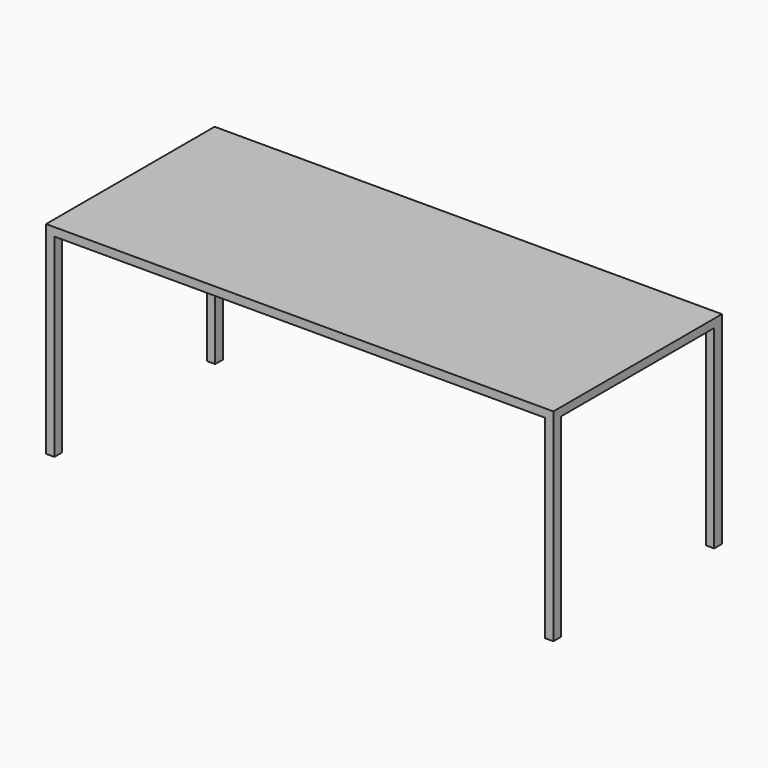
from build123d import *

# Parameters (mm, degrees)
F0_W     = 1830
F0_H     = 760
F1_DEPTH = 730
F2_W     = 30
F2_H     = 690
F2_W_2   = 1770
F2_H_2   = 35
F3_DEPTH = 700


with BuildPart() as f1:
    # F0 (on Top) → F1 (new body)
    with BuildSketch(Plane.XY):
        Rectangle(F0_W, F0_H)
    extrude(amount=F1_DEPTH)

    # F2 (on Top) → F3 (cut)
    with BuildSketch(Plane.XY):
        with Locations((900, 0)):
            Rectangle(F2_W, F2_H)
        Rectangle(F2_W_2, F2_H)
        with Locations((0, 362.5)):
            Rectangle(F2_W_2, F2_H_2)
        with Locations((-900, 0)):
            Rectangle(F2_W, F2_H)
        with Locations((0, -362.5)):
            Rectangle(F2_W_2, F2_H_2)
    extrude(amount=F3_DEPTH, mode=Mode.SUBTRACT)


solid = f1.part
